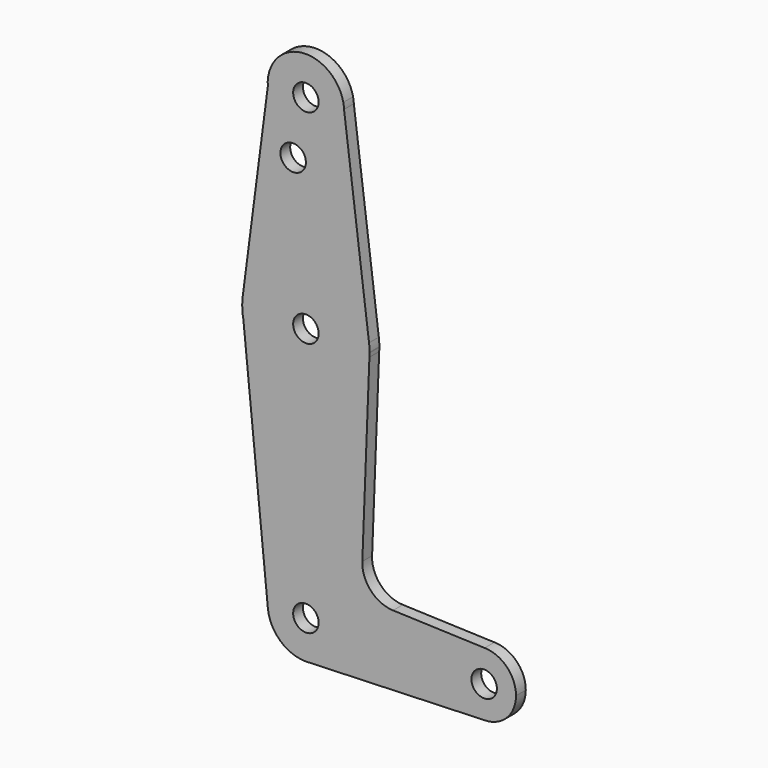
from build123d import *

# Parameters (mm, degrees)
F0_R     = 3.175
F1_DEPTH = 3.048


with BuildPart() as f1:
    # F0 (on Front) → F1 (new body)
    with BuildSketch(Plane.XZ):
        with BuildLine():
            Line((12.689354, 116.571312), (12.501454, 118.05575))
            ThreePointArc((12.501454, 118.05575), (1.853056, 125.55392), (-6.323977, 115.417497))
            ThreePointArc((-6.323977, 115.417497), (3.527042, 106.602608), (12.7, 116.1211))
            ThreePointArc((12.7, 116.1211), (12.697338, 116.346269), (12.689354, 116.571312))
        make_face()
        with Locations((3.175, 116.1211)):
            Circle(F0_R, mode=Mode.SUBTRACT)
        with BuildLine():
            ThreePointArc((12.689354, 116.571312), (12.624598, 117.317226), (12.501454, 118.05575))
            Line((12.501454, 118.05575), (12.689354, 116.571312))
        make_face()
        with BuildLine():
            ThreePointArc((12.7, 116.1211), (3.527042, 106.602608), (-6.323977, 115.417497))
            Line((-6.323977, 115.417497), (-12.567655, 67.366686))
            ThreePointArc((-12.567655, 67.366686), (3.175, 81.1961), (18.917655, 67.366686))
            Line((18.917655, 67.366686), (12.689354, 116.571312))
            ThreePointArc((12.689354, 116.571312), (12.697338, 116.346269), (12.7, 116.1211))
        make_face()
        with Locations((0, 101.8463)):
            Circle(F0_R, mode=Mode.SUBTRACT)
        with BuildLine():
            ThreePointArc((18.917655, 67.366686), (3.175, 81.1961), (-12.567655, 67.366686))
            ThreePointArc((-12.567655, 67.366686), (-12.671283, 66.27554), (-12.699372, 65.179844))
            Line((-12.699372, 65.179844), (-12.416138, 62.332447))
            ThreePointArc((-12.416138, 62.332447), (4.130377, 49.474874), (19.012272, 64.227281))
            Line((19.012272, 64.227281), (19.049372, 65.179844))
            ThreePointArc((19.049372, 65.179844), (19.049843, 65.250471), (19.05, 65.3211))
            ThreePointArc((19.05, 65.3211), (19.016879, 66.346032), (18.917655, 67.366686))
        make_face()
        with Locations((3.175, 65.3211)):
            Circle(F0_R, mode=Mode.SUBTRACT)
        with BuildLine():
            Line((-12.416138, 62.332447), (-12.699372, 65.179844))
            ThreePointArc((-12.699372, 65.179844), (-12.62204, 63.749751), (-12.416138, 62.332447))
        make_face()
        with BuildLine():
            ThreePointArc((19.012272, 64.227281), (4.130377, 49.474874), (-12.416138, 62.332447))
            Line((-12.416138, 62.332447), (-6.303224, 0.878291))
            ThreePointArc((-6.303224, 0.878291), (2.703016, 11.334399), (12.7, 1.8211))
            ThreePointArc((12.7, 1.8211), (10.14629, -4.669411), (3.85449, -7.679632))
            Line((3.85449, -7.679632), (47.625, -6.1164))
            ThreePointArc((47.625, -6.1164), (39.687737, 1.882486), (47.747767, 9.757651))
            Line((47.747767, 9.757651), (24.904107, 10.574858))
            ThreePointArc((24.904107, 10.574858), (19.360734, 13.112135), (17.244158, 18.829378))
            Line((17.244158, 18.829378), (19.012272, 64.227281))
        make_face()
        with BuildLine():
            ThreePointArc((19.012272, 64.227281), (19.037974, 64.703284), (19.049372, 65.179844))
            Line((19.049372, 65.179844), (19.012272, 64.227281))
        make_face()
        with BuildLine():
            ThreePointArc((12.7, 1.8211), (2.703016, 11.334399), (-6.303224, 0.878291))
            ThreePointArc((-6.303224, 0.878291), (-3.218175, -5.239561), (3.175, -7.7039))
            Line((3.175, -7.7039), (3.85449, -7.679632))
            ThreePointArc((3.85449, -7.679632), (10.14629, -4.669411), (12.7, 1.8211))
        make_face()
        with Locations((3.175, 1.8211)):
            Circle(F0_R, mode=Mode.SUBTRACT)
        with BuildLine():
            Line((3.85449, -7.679632), (3.175, -7.7039))
            ThreePointArc((3.175, -7.7039), (3.514962, -7.697831), (3.85449, -7.679632))
        make_face()
        with BuildLine():
            ThreePointArc((55.5625, 1.8211), (53.280898, 7.390186), (47.747767, 9.757651))
            ThreePointArc((47.747767, 9.757651), (39.687737, 1.882486), (47.625, -6.1164))
            ThreePointArc((47.625, -6.1164), (53.23766, -3.79156), (55.5625, 1.8211))
        make_face()
        with Locations((47.625, 1.8211)):
            Circle(F0_R, mode=Mode.SUBTRACT)
    extrude(amount=F1_DEPTH)


solid = f1.part
